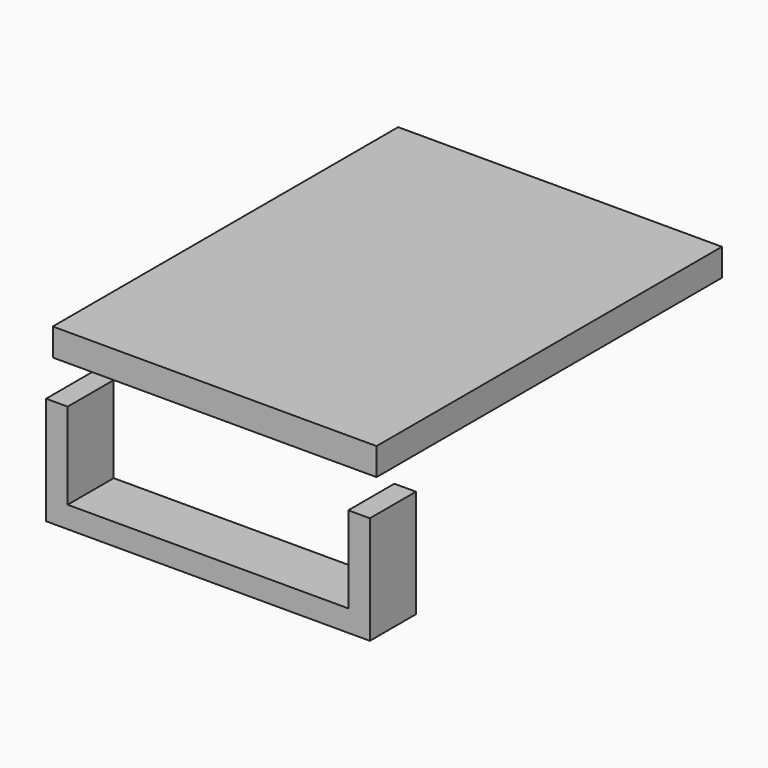
from build123d import *

# Parameters (mm, degrees)
F0_W     = 450
F0_H     = 600
F1_DEPTH = 38
F3_DEPTH = 80


with BuildPart() as f1:
    # F0 (on Top) → F1 (new body)
    with BuildSketch(Plane.XY):
        with Locations((225, 300)):
            Rectangle(F0_W, F0_H)
    extrude(amount=F1_DEPTH)


with BuildPart() as f3:
    # F2 (on Front) → F3 (new body)
    with BuildSketch(Plane.XZ):
        Polygon((84.718584, 0), (54.718584, 0), (54.718584, -150), (504.718584, -150), (504.718584, 0), (474.718584, 0), (474.718584, -120), (84.718584, -120), align=None)
    extrude(amount=F3_DEPTH)


solid = Compound([f1.part, f3.part])
